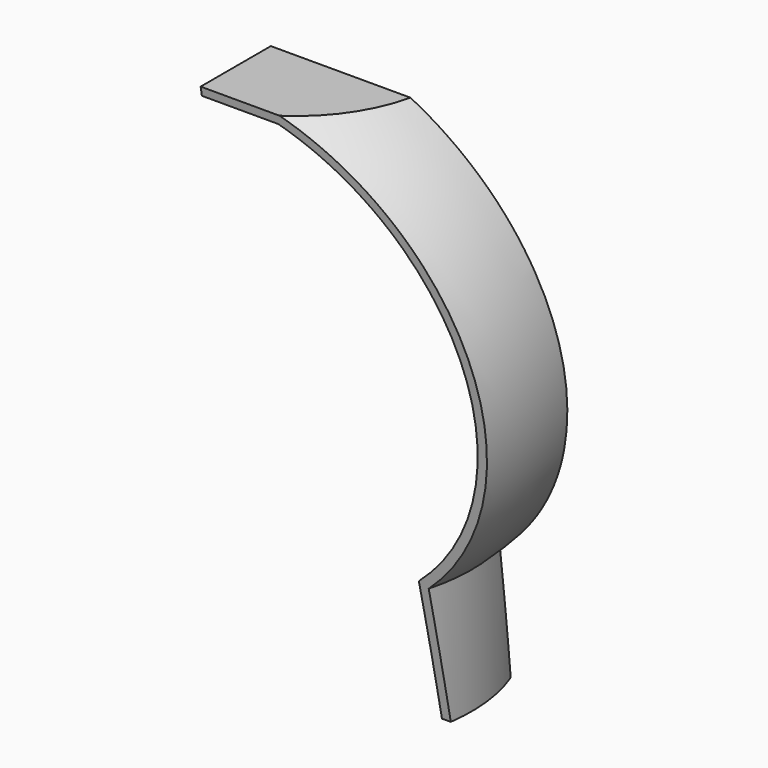
from build123d import *

# Parameters (mm, degrees)
F2_T     = -5.08
F5_DEPTH = 381
F6_W     = 183.9755326509
F6_H     = 374.7007958591
F7_DEPTH = 127


with BuildPart() as f1:
    # F0 (on Front) → F1 (revolve)
    with BuildSketch(Plane.XZ):
        with BuildLine():
            Line((0, 313.7035369873), (0, 0))
            Line((0, 0), (101.6, 0))
            Line((101.6, 0), (101.6, 72.2721558975))
            ThreePointArc((101.6, 72.2721558975), (151.9479695741, 197.5936266182), (82.9633497091, 313.7035369873))
            Line((82.9633497091, 313.7035369873), (0, 313.7035369873))
        make_face()
    revolve(axis=Axis((0, 0, 156.8517684937), (0, 0, -1)))

    # F2
    f2_openings = [f1.faces().sort_by_distance(p)[0] for p in [
        (0, 0, 0),
    ]]
    offset(amount=F2_T, openings=f2_openings, kind=Kind.INTERSECTION)

    # F4 (on offset) → F5 (cut)
    with BuildSketch(Plane.YZ.offset(177.8)):
        Polygon((-168.2938635349, -20.8534449339), (-40.0775820017, -20.8534449339), (-22.5597055078, -49.5606735349), (48.4589897096, -49.5606735349), (62.606588006, -20.8534449339), (175.8424788713, -20.8534449339), (175.8424788713, 336.9438350201), (0, 336.9438350201), (-10.2703914278, 381.5792500973), (-100.4313006997, 381.5792500973), (-107.4867025018, 336.9438350201), (-168.2938635349, 336.9438350201), align=None)
        Polygon((-10.2703914278, -20.8534449339), (-73.3597055078, 336.9438350201), (-22.5597055078, 336.9438350201), (40.5296085722, -20.8534449339), align=None, mode=Mode.SUBTRACT)
    extrude(amount=-F5_DEPTH, mode=Mode.SUBTRACT)

    # F6 (on Front) → F7 (cut, symmetric)
    with BuildSketch(Plane.XZ):
        with Locations((-91.9877663255, 152.6896301657)):
            Rectangle(F6_W, F6_H)
    extrude(amount=F7_DEPTH, both=True, mode=Mode.SUBTRACT)


solid = f1.part
